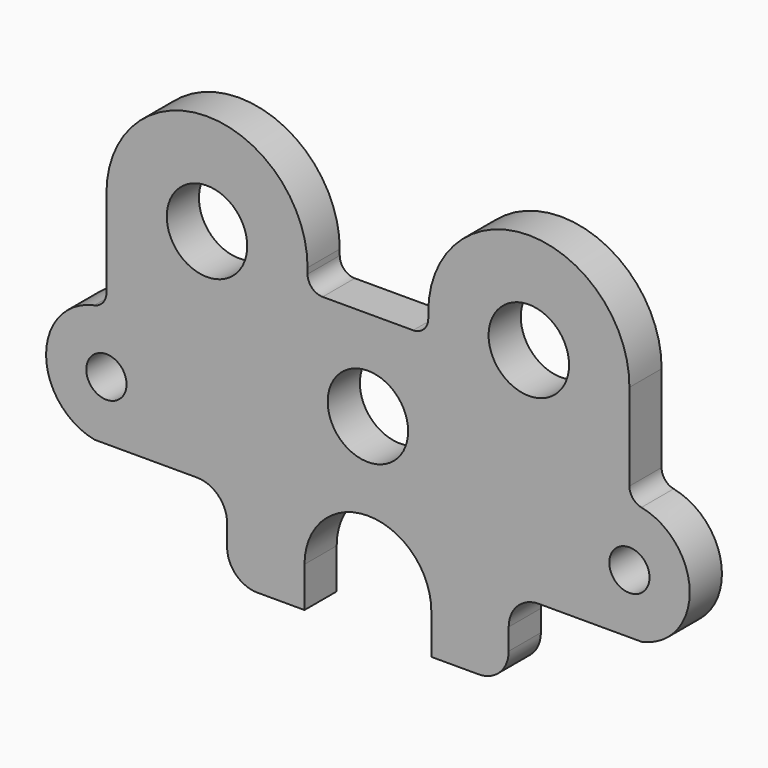
from build123d import *

# Parameters (mm, degrees)
F0_R     = 6.35
F0_R_2   = 12.7
F1_DEPTH = 12.7


with BuildPart() as f1:
    # F0 (on Front) → F1 (new body)
    with BuildSketch(Plane.XZ):
        with BuildLine():
            Line((4.658427, 38.324708), (-23.916573, 38.324708))
            ThreePointArc((-23.916573, 38.324708), (-27.284169, 39.719612), (-28.679073, 43.087208))
            Line((-28.679073, 43.087208), (-28.679073, 44.898387))
            ThreePointArc((-28.679073, 44.898387), (-60.541307, 76.648584), (-92.179073, 44.674708))
            Line((-92.179073, 44.674708), (-92.179073, 17.206098))
            ThreePointArc((-92.179073, 17.206098), (-93.252557, 14.194029), (-95.989073, 12.53982))
            ThreePointArc((-95.989073, 12.53982), (-111.229073, -6.125292), (-95.989073, -24.790403))
            Line((-95.989073, -24.790403), (-92.179073, -24.790403))
            Line((-92.179073, -24.790403), (-63.604073, -24.790403))
            ThreePointArc((-63.604073, -24.790403), (-56.868881, -27.580211), (-54.079073, -34.315403))
            Line((-54.079073, -34.315403), (-54.079073, -41.050292))
            ThreePointArc((-54.079073, -41.050292), (-51.289266, -47.785484), (-44.554073, -50.575292))
            Line((-44.554073, -50.575292), (-29.646001, -50.575292))
            Line((-29.646001, -50.575292), (-29.646001, -37.875292))
            ThreePointArc((-29.646001, -37.875292), (-9.629073, -17.858364), (10.387854, -37.875292))
            Line((10.387854, -37.875292), (10.387854, -50.575292))
            Line((10.387854, -50.575292), (25.295927, -50.575292))
            ThreePointArc((25.295927, -50.575292), (32.031119, -47.785484), (34.820927, -41.050292))
            Line((34.820927, -41.050292), (34.820927, -34.315403))
            ThreePointArc((34.820927, -34.315403), (37.610734, -27.580211), (44.345927, -24.790403))
            Line((44.345927, -24.790403), (72.920927, -24.790403))
            Line((72.920927, -24.790403), (76.730927, -24.790403))
            ThreePointArc((76.730927, -24.790403), (91.970927, -6.125292), (76.730927, 12.53982))
            ThreePointArc((76.730927, 12.53982), (73.99441, 14.194029), (72.920927, 17.206098))
            Line((72.920927, 17.206098), (72.920927, 44.674708))
            ThreePointArc((72.920927, 44.674708), (41.28316, 76.648584), (9.420927, 44.898387))
            Line((9.420927, 44.898387), (9.420927, 43.087208))
            ThreePointArc((9.420927, 43.087208), (8.026023, 39.719612), (4.658427, 38.324708))
        make_face()
        with Locations((-92.179073, -6.125292)):
            Circle(F0_R, mode=Mode.SUBTRACT)
        with Locations((-9.629073, 9.749708)):
            Circle(F0_R_2, mode=Mode.SUBTRACT)
        with Locations((72.920927, -6.125292)):
            Circle(F0_R, mode=Mode.SUBTRACT)
        with Locations((-60.429073, 44.674708)):
            Circle(F0_R_2, mode=Mode.SUBTRACT)
        with Locations((41.170927, 44.674708)):
            Circle(F0_R_2, mode=Mode.SUBTRACT)
    extrude(amount=F1_DEPTH)


solid = f1.part
